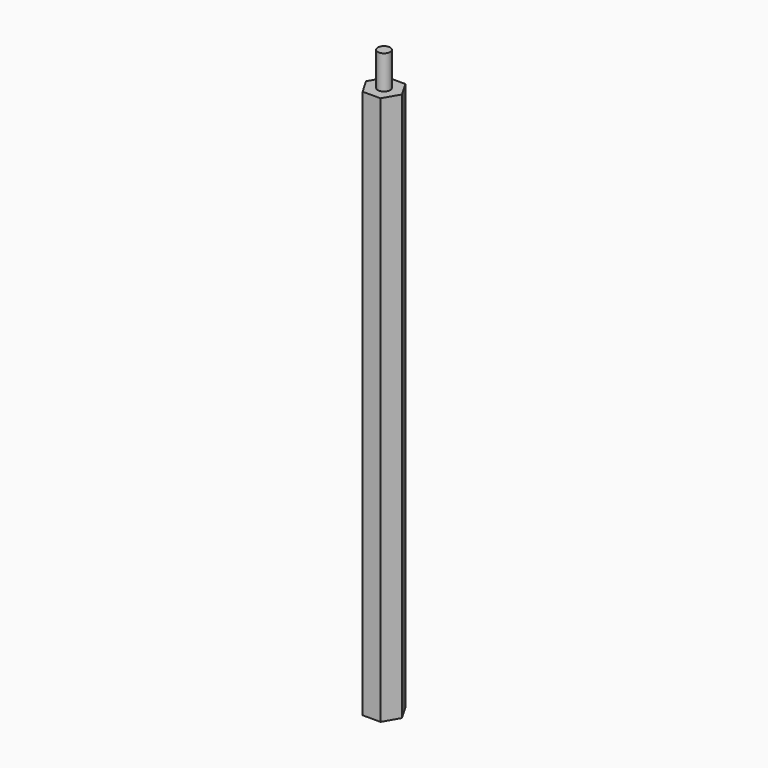
from build123d import *

# Parameters (mm, degrees)
F0_R     = 1.27
F1_DEPTH = 112.268
F2_R     = 1.265252
F3_DEPTH = 119.126


with BuildPart() as f1:
    # F0 (on Top) → F1 (new body)
    with BuildSketch(Plane.XY):
        Polygon((-24.003661, -7.798668), (-20.337486, -7.798668), (-18.504399, -4.623668), (-20.337486, -1.448668), (-24.003661, -1.448668), (-25.836748, -4.623668), align=None)
        with Locations((-22.170573, -4.623668)):
            Circle(F0_R, mode=Mode.SUBTRACT)
    extrude(amount=F1_DEPTH)


with BuildPart() as f3:
    # F2 (on face) → F3 (new body)
    with BuildSketch(Plane(origin=(0, 0, 0), x_dir=(1, 0, 0), z_dir=(0, 0, -1))):
        with Locations((-22.170573, 4.623668)):
            Circle(F2_R)
    extrude(amount=-F3_DEPTH)


solid = Compound([f1.part, f3.part])
